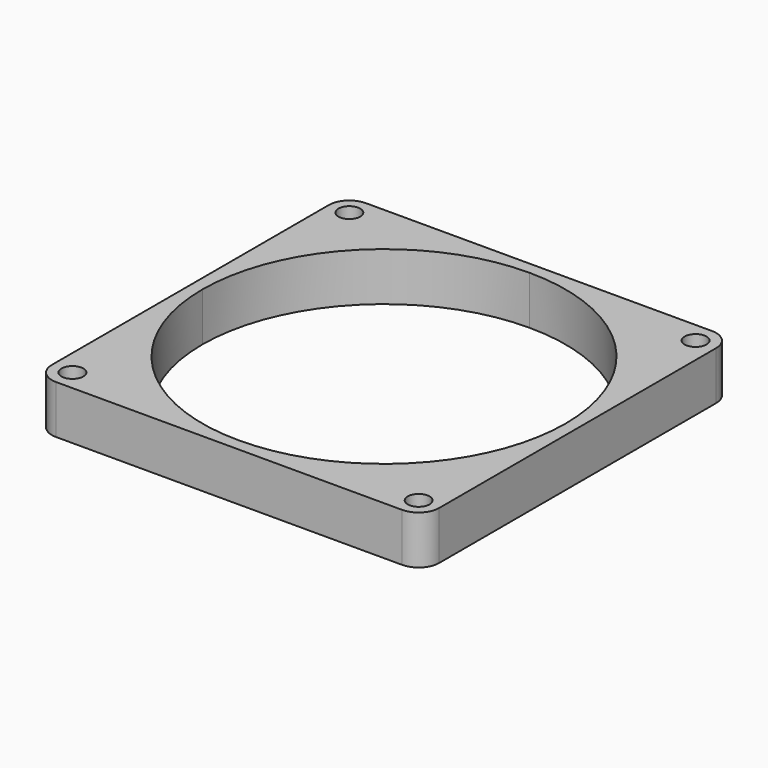
from build123d import *

# Parameters (mm, degrees)
F0_R     = 2.25
F1_DEPTH = 10


with BuildPart() as f1:
    # F0 (on Top) → F1 (new body)
    with BuildSketch(Plane.XY):
        with BuildLine():
            ThreePointArc((0, 37.5), (26.516504, 26.516504), (37.5, 0))
            Line((37.5, 0), (40, 0))
            Line((40, 0), (40, 35.75))
            ThreePointArc((40, 35.75), (38.755204, 38.755204), (35.75, 40))
            Line((35.75, 40), (0, 40))
            Line((0, 40), (0, 37.5))
        make_face()
        with Locations((35.75, 35.75)):
            Circle(F0_R, mode=Mode.SUBTRACT)
    extrude(amount=F1_DEPTH)

    # F2: F1 across face


with BuildPart() as f1_1:
    add(f1.part)
    add(f1.part.mirror(Plane(origin=(38.75, 0, 5), x_dir=(1, 0, 0), z_dir=(0, -1, 0))))

    # F3: F1 across face


with BuildPart() as f1_2:
    add(f1_1.part)
    add(f1_1.part.mirror(Plane(origin=(0, 38.75, 5), x_dir=(0, -1, 0), z_dir=(-1, 0, 0))))


solid = f1_2.part
